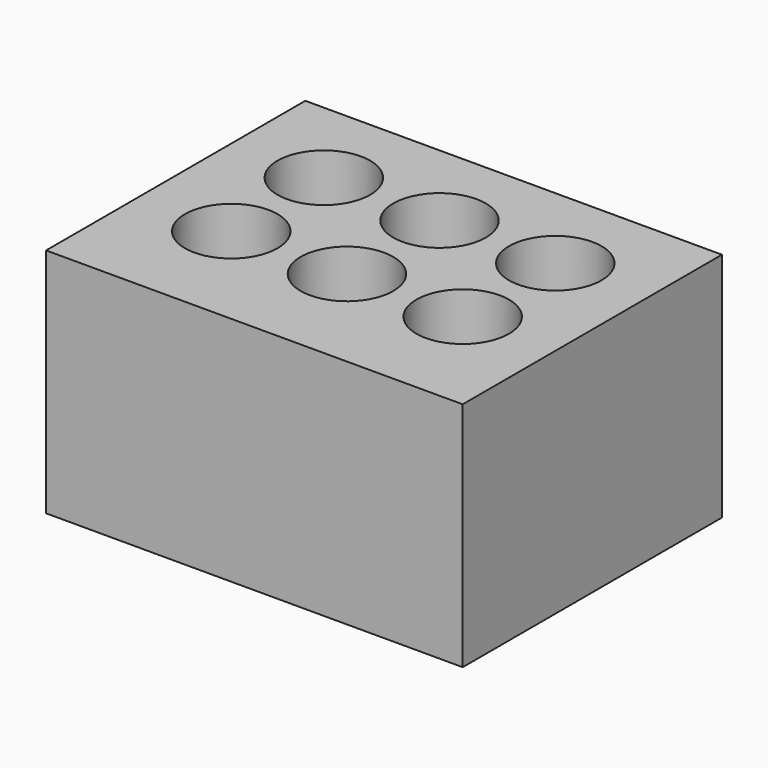
from build123d import *

# Parameters (mm, degrees)
CYLINDER001_R     = 2
CYLINDER001_DEPTH = 10
CYLINDER002_R     = 2
CYLINDER002_DEPTH = 10
CYLINDER003_R     = 2
CYLINDER003_DEPTH = 10
CYLINDER004_R     = 2
CYLINDER004_DEPTH = 10
CYLINDER005_R     = 2
CYLINDER005_DEPTH = 10
CYLINDER_R        = 2
CYLINDER_DEPTH    = 10
BOX_W             = 18
BOX_H             = 14
BOX_DEPTH         = 10


with BuildPart() as cilindre2:
    # Cylinder001 → Cylinder001 (new body)
    with BuildSketch(Plane(origin=(0, 5, 5), x_dir=(1, 0, 0), z_dir=(0, 0, 1))):
        Circle(CYLINDER001_R)
    extrude(amount=CYLINDER001_DEPTH)


with BuildPart() as cilindre3:
    # Cylinder002 → Cylinder002 (new body)
    with BuildSketch(Plane(origin=(5, 5, 5), x_dir=(1, 0, 0), z_dir=(0, 0, 1))):
        Circle(CYLINDER002_R)
    extrude(amount=CYLINDER002_DEPTH)


with BuildPart() as cilindre4:
    # Cylinder003 → Cylinder003 (new body)
    with BuildSketch(Plane(origin=(5, 0, 5), x_dir=(1, 0, 0), z_dir=(0, 0, 1))):
        Circle(CYLINDER003_R)
    extrude(amount=CYLINDER003_DEPTH)


with BuildPart() as cilindre5:
    # Cylinder004 → Cylinder004 (new body)
    with BuildSketch(Plane(origin=(10, 0, 5), x_dir=(1, 0, 0), z_dir=(0, 0, 1))):
        Circle(CYLINDER004_R)
    extrude(amount=CYLINDER004_DEPTH)


with BuildPart() as cilindre6:
    # Cylinder005 → Cylinder005 (new body)
    with BuildSketch(Plane(origin=(10, 5, 5), x_dir=(1, 0, 0), z_dir=(0, 0, 1))):
        Circle(CYLINDER005_R)
    extrude(amount=CYLINDER005_DEPTH)


with BuildPart() as obj1:
    # Cylinder → Cylinder (new body)
    with BuildSketch(Plane.XY.offset(5)):
        Circle(CYLINDER_R)
    extrude(amount=CYLINDER_DEPTH)

    # Fusion: union cilindre2, cilindre3, cilindre4, cilindre5, cilindre6
    add(cilindre2.part)
    add(cilindre3.part)
    add(cilindre4.part)
    add(cilindre5.part)
    add(cilindre6.part)


with BuildPart() as cut:
    # Box → Box (new body)
    with BuildSketch(Plane(origin=(-4, -5, 0), x_dir=(1, 0, 0), z_dir=(0, 0, 1))):
        with Locations((9, 7)):
            Rectangle(BOX_W, BOX_H)
    extrude(amount=BOX_DEPTH)

    # Cut: cut obj1
    add(obj1.part, mode=Mode.SUBTRACT)


solid = cut.part
